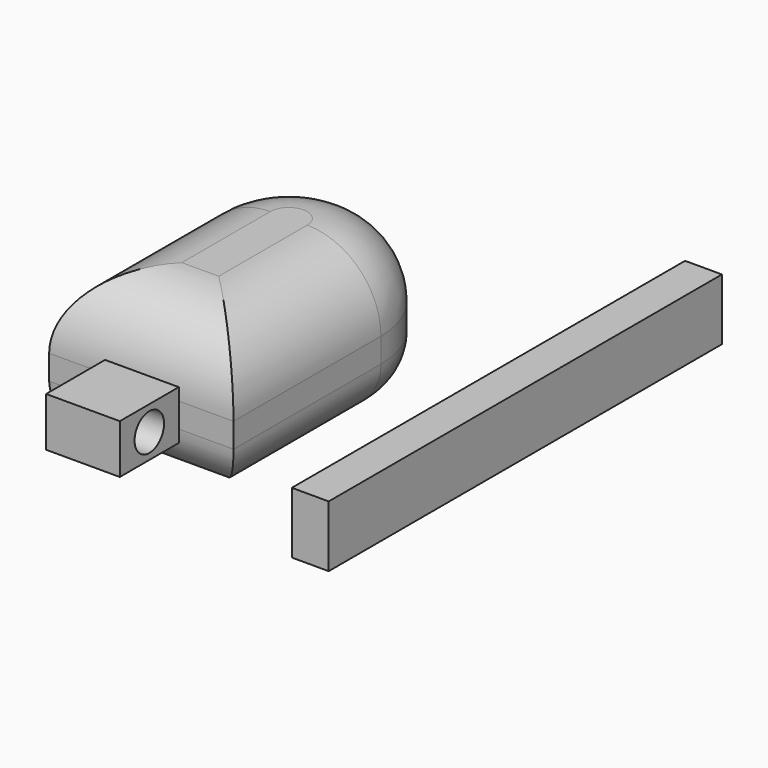
from build123d import *

# Parameters (mm, degrees)
F1_DEPTH      = 6
F2_R          = 6
F3_R          = 4
F4_W          = 6
F4_H          = 6
F5_DEPTH      = 1
F5_DEPTH_BACK = 3
F6_R          = 1.5
F7_DEPTH      = 6
F8_W          = 3
F8_H          = 40
F9_DEPTH      = 5


with BuildPart() as f1:
    # F0 (on Top) → F1 (new body, symmetric)
    with BuildSketch(Plane.XY):
        with BuildLine():
            ThreePointArc((-65.6875988848, 52.4468704985), (-58.1875988848, 44.9468704985), (-50.6875988848, 52.4468704985))
            ThreePointArc((-50.6875988848, 52.4468704985), (-58.1875988848, 59.9468704985), (-65.6875988848, 52.4468704985))
        make_face()
        with BuildLine():
            Line((-50.6875988848, 37.4468704985), (-50.6875988848, 52.4468704985))
            ThreePointArc((-50.6875988848, 52.4468704985), (-58.1875988848, 44.9468704985), (-65.6875988848, 52.4468704985))
            Line((-65.6875988848, 52.4468704985), (-65.6875988848, 37.4468704985))
            Line((-65.6875988848, 37.4468704985), (-61.1875988848, 37.4468704985))
            Line((-61.1875988848, 37.4468704985), (-55.1875988848, 37.4468704985))
            Line((-55.1875988848, 37.4468704985), (-50.6875988848, 37.4468704985))
        make_face()
    extrude(amount=F1_DEPTH, both=True)

    # F2
    f2_edges = [f1.edges().sort_by_distance(p)[0] for p in [
        (-58.187599, 59.94687, 6),
        (-65.687599, 44.94687, 6),
        (-58.187599, 37.44687, 6),
        (-50.687599, 44.94687, 6),
    ]]
    fillet(f2_edges, radius=F2_R)

    # F3
    f3_edges = [f1.edges().sort_by_distance(p)[0] for p in [
        (-58.187599, 59.94687, -6),
        (-65.687599, 44.94687, -6),
        (-58.187599, 37.44687, -6),
        (-50.687599, 44.94687, -6),
    ]]
    fillet(f3_edges, radius=F3_R)

    # F4 (on Top) → F5 (join, two sides)
    with BuildSketch(Plane.XY) as f5_sk:
        with Locations((-58.1369646636, 34.4468704985)):
            Rectangle(F4_W, F4_H)
    extrude(amount=F5_DEPTH)
    extrude(f5_sk.sketch, amount=-F5_DEPTH_BACK)

    # F6 (on face) → F7 (cut)
    with BuildSketch(Plane(origin=(-61.1369646636, 0, 0), x_dir=(0, -1, 0), z_dir=(-1, 0, 0))):
        with Locations((-34.4468704985, -1)):
            Circle(F6_R)
    extrude(amount=-F7_DEPTH, mode=Mode.SUBTRACT)


with BuildPart() as f9:
    # F8 (on Top) → F9 (new body)
    with BuildSketch(Plane.XY):
        with Locations((-34.5753123189, 45.1175575703)):
            Rectangle(F8_W, F8_H)
    extrude(amount=F9_DEPTH)


solid = Compound([f1.part, f9.part])
